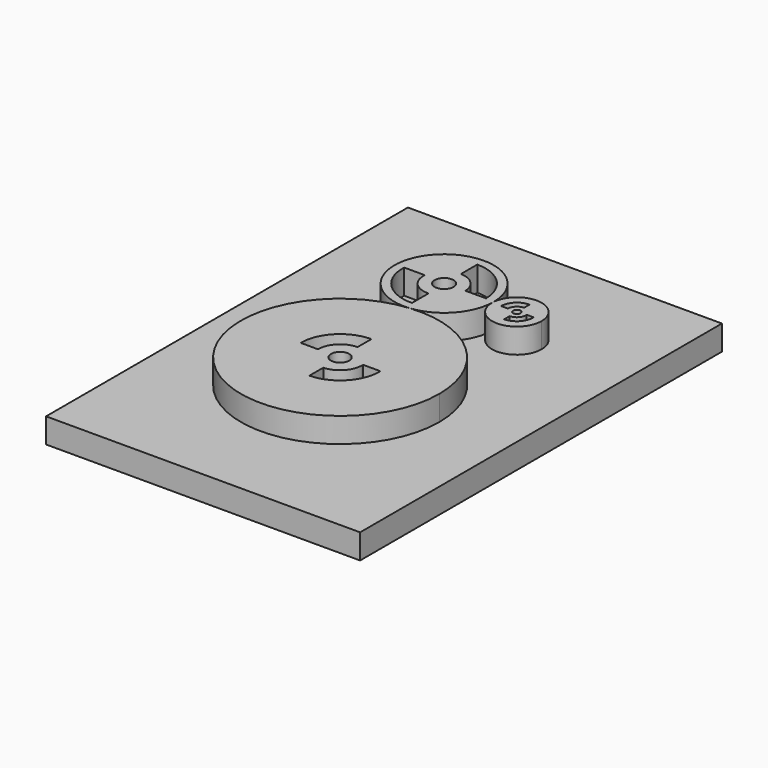
from build123d import *

# Parameters (mm, degrees)
F0_R     = 1.894076
F0_R_2   = 1.837348
F0_R_3   = 0.738832
F1_DEPTH = 10
F2_W     = 63.309941
F2_H     = 91.180074
F2_R     = 1.098943
F2_R_2   = 0.776666
F2_R_3   = 0.557585
F3_DEPTH = 5


with BuildPart() as f1:
    # F0 (on Top) → F1 (new body)
    with BuildSketch(Plane.XY):
        with BuildLine():
            ThreePointArc((-54.924116, -13.958908), (-54.921334, -13.822768), (-54.920407, -13.686602))
            ThreePointArc((-54.920407, -13.686602), (-72.327615, -6.968472), (-63.947062, -23.639119))
            ThreePointArc((-63.947062, -23.639119), (-57.605364, -20.50497), (-54.924116, -13.958908))
        make_face()
        with BuildLine():
            ThreePointArc((-56.59659, -13.512996), (-56.595232, -13.599794), (-56.59478, -13.686602))
            ThreePointArc((-56.59478, -13.686602), (-58.967621, -19.50729), (-64.733604, -22.010134))
            ThreePointArc((-64.733604, -22.010134), (-70.85808, -19.522707), (-73.239478, -13.356229))
            ThreePointArc((-73.239478, -13.356229), (-70.677204, -7.672005), (-64.886253, -5.361044))
            ThreePointArc((-64.886253, -5.361044), (-59.082814, -7.750393), (-56.59659, -13.512996))
        make_face(mode=Mode.SUBTRACT)
        with BuildLine():
            Line((-64.886253, -9.518197), (-64.886253, -5.361044))
            ThreePointArc((-64.886253, -5.361044), (-70.677204, -7.672005), (-73.239478, -13.356229))
            Line((-73.239478, -13.356229), (-69.07584, -13.356229))
            ThreePointArc((-69.07584, -13.356229), (-67.73623, -10.612856), (-64.886253, -9.518197))
        make_face()
        with BuildLine():
            ThreePointArc((-64.733604, -22.010134), (-58.967621, -19.50729), (-56.59478, -13.686602))
            ThreePointArc((-56.59478, -13.686602), (-56.595232, -13.599794), (-56.59659, -13.512996))
            Line((-56.59659, -13.512996), (-60.755479, -13.512996))
            ThreePointArc((-60.755479, -13.512996), (-60.752767, -13.59978), (-60.751862, -13.686602))
            ThreePointArc((-60.751862, -13.686602), (-61.90748, -16.567406), (-64.733604, -17.850959))
            Line((-64.733604, -17.850959), (-64.733604, -22.010134))
        make_face()
        with BuildLine():
            ThreePointArc((-60.751862, -13.686602), (-60.752767, -13.59978), (-60.755479, -13.512996))
            ThreePointArc((-60.755479, -13.512996), (-62.022533, -10.690089), (-64.886253, -9.518197))
            ThreePointArc((-64.886253, -9.518197), (-67.73623, -10.612856), (-69.07584, -13.356229))
            ThreePointArc((-69.07584, -13.356229), (-67.918433, -16.582912), (-64.733604, -17.850959))
            ThreePointArc((-64.733604, -17.850959), (-61.90748, -16.567406), (-60.751862, -13.686602))
        make_face()
        with Locations((-64.920407, -13.686602)):
            Circle(F0_R, mode=Mode.SUBTRACT)
        with BuildLine():
            ThreePointArc((-42.000372, -43.544154), (-48.564111, -28.729738), (-63.947062, -23.639119))
            ThreePointArc((-63.947062, -23.639119), (-75.436632, -58.358569), (-42.000372, -43.544154))
        make_face()
        with BuildLine():
            ThreePointArc((-54.089022, -43.286919), (-54.085887, -43.415519), (-54.084842, -43.544154))
            ThreePointArc((-54.084842, -43.544154), (-56.351147, -49.08869), (-61.852326, -51.458299))
            ThreePointArc((-61.852326, -51.458299), (-67.52905, -49.208898), (-69.915777, -43.58853))
            ThreePointArc((-69.915777, -43.58853), (-67.620487, -37.970113), (-62.021154, -35.628651))
            ThreePointArc((-62.021154, -35.628651), (-56.502415, -37.849587), (-54.089022, -43.286919))
        make_face(mode=Mode.SUBTRACT)
        with BuildLine():
            Line((-57.582658, -43.286919), (-54.089022, -43.286919))
            ThreePointArc((-54.089022, -43.286919), (-56.502415, -37.849587), (-62.021154, -35.628651))
            Line((-62.021154, -35.628651), (-62.021154, -39.119006))
            ThreePointArc((-62.021154, -39.119006), (-58.97116, -40.318284), (-57.582658, -43.286919))
        make_face()
        with BuildLine():
            ThreePointArc((-69.915777, -43.58853), (-67.52905, -49.208898), (-61.852326, -51.458299))
            Line((-61.852326, -51.458299), (-61.852326, -47.966873))
            ThreePointArc((-61.852326, -47.966873), (-65.060682, -46.740536), (-66.425345, -43.58853))
            Line((-66.425345, -43.58853), (-69.915777, -43.58853))
        make_face()
        with BuildLine():
            ThreePointArc((-57.575176, -43.544154), (-57.577047, -43.415482), (-57.582658, -43.286919))
            ThreePointArc((-57.582658, -43.286919), (-58.97116, -40.318284), (-62.021154, -39.119006))
            ThreePointArc((-62.021154, -39.119006), (-65.152411, -40.43819), (-66.425345, -43.58853))
            ThreePointArc((-66.425345, -43.58853), (-65.060682, -46.740536), (-61.852326, -47.966873))
            ThreePointArc((-61.852326, -47.966873), (-58.819374, -46.620453), (-57.575176, -43.544154))
        make_face()
        with Locations((-62.000372, -43.544154)):
            Circle(F0_R_2, mode=Mode.SUBTRACT)
        with BuildLine():
            ThreePointArc((-44.92597, -14.09506), (-49.857887, -9.095524), (-54.924116, -13.958908))
            ThreePointArc((-54.924116, -13.958908), (-49.994052, -19.094597), (-44.92597, -14.09506))
        make_face()
        with BuildLine():
            ThreePointArc((-46.737649, -13.88158), (-46.732295, -13.988261), (-46.73051, -14.09506))
            ThreePointArc((-46.73051, -14.09506), (-47.666439, -16.354592), (-49.92597, -17.29052))
            ThreePointArc((-49.92597, -17.29052), (-52.190152, -16.349931), (-53.121402, -14.081892))
            ThreePointArc((-53.121402, -14.081892), (-52.18084, -11.830879), (-49.92597, -10.899601))
            ThreePointArc((-49.92597, -10.899601), (-47.74322, -11.761273), (-46.737649, -13.88158))
        make_face(mode=Mode.SUBTRACT)
        with BuildLine():
            ThreePointArc((-53.121402, -14.081892), (-52.190152, -16.349931), (-49.92597, -17.29052))
            Line((-49.92597, -17.29052), (-49.92597, -15.910761))
            ThreePointArc((-49.92597, -15.910761), (-51.214511, -15.37429), (-51.741622, -14.081892))
            Line((-51.741622, -14.081892), (-53.121402, -14.081892))
        make_face()
        with BuildLine():
            Line((-48.122863, -13.88158), (-46.737649, -13.88158))
            ThreePointArc((-46.737649, -13.88158), (-47.74322, -11.761273), (-49.92597, -10.899601))
            Line((-49.92597, -10.899601), (-49.92597, -12.27936))
            ThreePointArc((-49.92597, -12.27936), (-48.719912, -12.737787), (-48.122863, -13.88158))
        make_face()
        with BuildLine():
            ThreePointArc((-48.110269, -14.09506), (-48.11342, -13.988135), (-48.122863, -13.88158))
            ThreePointArc((-48.122863, -13.88158), (-48.719912, -12.737787), (-49.92597, -12.27936))
            ThreePointArc((-49.92597, -12.27936), (-51.2052, -12.806519), (-51.741622, -14.081892))
            ThreePointArc((-51.741622, -14.081892), (-51.214511, -15.37429), (-49.92597, -15.910761))
            ThreePointArc((-49.92597, -15.910761), (-48.642076, -15.378955), (-48.110269, -14.09506))
        make_face()
        with Locations((-49.92597, -14.09506)):
            Circle(F0_R_3, mode=Mode.SUBTRACT)
    extrude(amount=F1_DEPTH)


with BuildPart() as f3:
    # F2 (on Top) → F3 (new body)
    with BuildSketch(Plane.XY):
        with Locations((-59.908872, -35.093179)):
            Rectangle(F2_W, F2_H)
        with Locations((-61.986212, -43.653563)):
            Circle(F2_R, mode=Mode.SUBTRACT)
        with Locations((-64.897552, -13.68619)):
            Circle(F2_R_2, mode=Mode.SUBTRACT)
        with Locations((-49.925722, -14.106449)):
            Circle(F2_R_3, mode=Mode.SUBTRACT)
    extrude(amount=F3_DEPTH)


solid = Compound([f1.part, f3.part])
